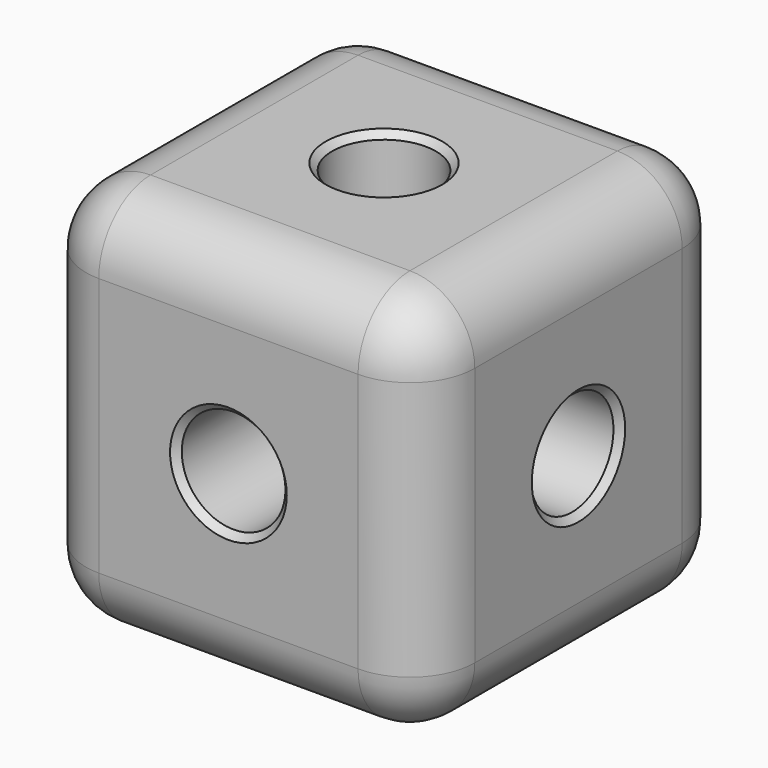
from build123d import *

# Parameters (mm, degrees)
F0_W     = 30
F0_H     = 30
F1_DEPTH = 15
F2_R     = 4
F3_DEPTH = 30.001
F4_R     = 4
F5_DEPTH = 30.001
F6_R     = 4
F7_DEPTH = 30.001
F8_R     = 5
F9_SIZE  = 0.5


with BuildPart() as f1:
    # F0 (on Front) → F1 (new body, symmetric)
    with BuildSketch(Plane.XZ):
        Rectangle(F0_W, F0_H)
    extrude(amount=F1_DEPTH, both=True)

    # F2 (on face) → F3 (cut, through all)
    with BuildSketch(Plane.XZ.offset(15)):
        Circle(F2_R)
    extrude(amount=-F3_DEPTH, mode=Mode.SUBTRACT)

    # F4 (on face) → F5 (cut, through all)
    with BuildSketch(Plane.YZ.offset(15)):
        Circle(F4_R)
    extrude(amount=-F5_DEPTH, mode=Mode.SUBTRACT)

    # F6 (on face) → F7 (cut, through all)
    with BuildSketch(Plane.XY.offset(15)):
        Circle(F6_R)
    extrude(amount=-F7_DEPTH, mode=Mode.SUBTRACT)

    # F8
    f8_edges = [f1.edges().sort_by_distance(p)[0] for p in [
        (15, 0, 15),
        (0, -15, 15),
        (15, -15, 0),
        (0, -15, -15),
        (-15, -15, 0),
        (15, 15, 0),
        (0, 15, 15),
        (-15, 15, 0),
        (0, 15, -15),
        (-15, 0, 15),
        (-15, 0, -15),
        (15, 0, -15),
    ]]
    fillet(f8_edges, radius=F8_R)

    # F9
    f9_edges = [f1.edges().sort_by_distance(p)[0] for p in [
        (-4, 0, 15),
        (-4, -15, 0),
        (15, -4, 0),
        (-4, 15, 0),
        (-15, -4, 0),
        (-4, 0, -15),
    ]]
    chamfer(f9_edges, length=F9_SIZE)


solid = f1.part
